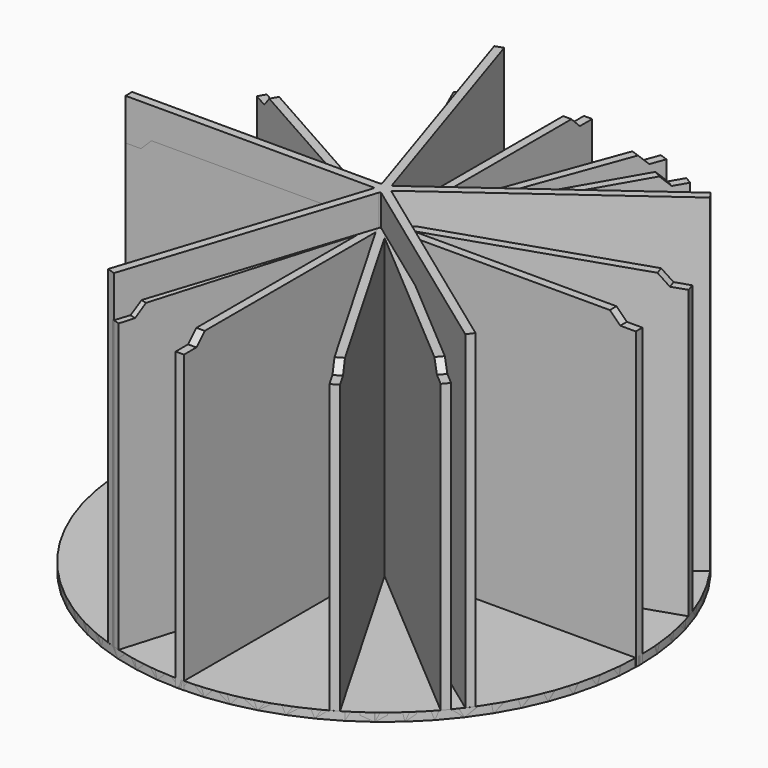
from build123d import *

# Parameters (mm, degrees)
PAD_DEPTH    = 32.5
FILLET_R     = 0.1
SKETCH006_R  = 24.6
PAD002_DEPTH = 0.8
PAD001_DEPTH = 29.5
FILLET001_R  = 0.15
PAD004_DEPTH = 29.5
SKETCH011_R  = 24.6
PAD005_DEPTH = 0.8
PAD006_DEPTH = 29.5
FILLET002_R  = 0.15
SKETCH014_R  = 24.6
PAD007_DEPTH = 0.8


with BuildPart() as body:
    # Sketch004 → Pad (new body)
    with BuildSketch(Plane.XY):
        Polygon((-7.9812356684, 23.2692904319), (-0.5505527682, 0.4), (-24.5967477525, 0.4), (-24.5967477525, -0.4), (-0.5505527682, -0.4), (-7.9812356684, -23.2692904319), (-7.2203904554, -23.5165040274), (0.2102924448, -0.6472135955), (19.6640728372, -14.781212381), (20.134301039, -14.1339987855), (0.6805206467, 0), (20.134301039, 14.1339987855), (19.6640728372, 14.781212381), (0.2102924448, 0.6472135955), (-7.2203904554, 23.5165040274), align=None)
    extrude(amount=PAD_DEPTH)

    # Fillet
    fillet_edges = [body.edges().sort_by_distance(p)[0] for p in [
        (0.210292, 0.647214, 16.25),
        (-0.550553, 0.4, 16.25),
        (-0.550553, -0.4, 16.25),
        (0.210292, -0.647214, 16.25),
        (0.680521, 0, 16.25),
    ]]
    fillet(fillet_edges, radius=FILLET_R)

    # Sketch006 → Pad002 (join)
    with BuildSketch(Plane.XY):
        Circle(SKETCH006_R)
    extrude(amount=PAD002_DEPTH)


with BuildPart() as body001:
    # Sketch001 → Pad001 (new body)
    with BuildSketch(Plane.XY):
        Polygon((-0.4, 24.5967477525), (-0.4, 0.4), (-24.5967477525, 0.4), (-24.5967477525, -0.4), (-0.4, -0.4), (-0.4, -24.5967477525), (0.4, -24.5967477525), (0.4, -0.4), (24.5967477525, -0.4), (24.5967477525, 0.4), (0.4, 0.4), (0.4, 24.5967477525), align=None)
    extrude(amount=PAD001_DEPTH)

    # Fillet001
    fillet001_edges = [body001.edges().sort_by_distance(p)[0] for p in [
        (0.4, 0.4, 14.75),
        (-0.4, 0.4, 14.75),
        (-0.4, -0.4, 14.75),
        (0.4, -0.4, 14.75),
    ]]
    fillet(fillet001_edges, radius=FILLET001_R)

    # Sketch007 → Groove001 (revolve, cut)
    with BuildSketch(Plane.XZ):
        Polygon((-24.6, 28.5), (-23.1, 28.5), (-22.1, 29.5), (-24.6, 29.5), align=None)
    revolve(axis=Axis((0, 0, 0), (0, 0, 1)), mode=Mode.SUBTRACT)


with BuildPart() as growing:
    # Sketch009 → Pad004 (new body)
    with BuildSketch(Plane.XY):
        Polygon((-24.5967477525, -0.4), (-24.5967477525, 0.4), (-1.5253733611, 0.4), (-21.6278933982, 11.7215283627), (-21.2353193566, 12.418583326), (-0.8534222236, 0.9397127142), (-10.3221188344, 22.3296632928), (-9.590588736, 22.6534899673), (-0.0341640242, 1.0653600804), (8.1194697573, 23.2214170726), (8.8702444949, 22.9451250291), (0.6622505389, 0.6413538816), (23.2176415251, 8.1302596523), (23.4697280995, 7.3710150547), (0.8001011197, -0.1558196791), (18.9883855233, -15.639731942), (18.469802807, -16.2488887087), (0.2086228294, -0.7029195389), (-6.6149861358, -23.6939223942), (-7.3819204182, -23.4663003249), (-0.5359635593, -0.4), align=None)
    extrude(amount=PAD004_DEPTH)

    # Sketch010 → Groove002 (revolve, cut)
    with BuildSketch(Plane.XZ):
        Polygon((-24.6, 28.5), (-23.1, 28.5), (-22.1, 29.5), (-24.6, 29.5), align=None)
    revolve(axis=Axis((0, 0, 0), (0, 0, 1)), mode=Mode.SUBTRACT)

    # Sketch011 → Pad005 (join)
    with BuildSketch(Plane.XY):
        Circle(SKETCH011_R)
    extrude(amount=PAD005_DEPTH)


with BuildPart() as body004:
    # Sketch012 → Pad006 (new body)
    with BuildSketch(Plane.XY):
        Polygon((11.9519637147, 21.5014084041), (-0.2309401077, 0.4), (-24.5967477525, 0.4), (-24.5967477525, -0.4), (-0.2309401077, -0.4), (11.9519637147, -21.5014084041), (12.6447840378, -21.1014084041), (0.4618802154, 0), (12.6447840378, 21.1014084041), align=None)
    extrude(amount=PAD006_DEPTH)

    # Fillet002
    fillet002_edges = [body004.edges().sort_by_distance(p)[0] for p in [
        (-0.23094, 0.4, 14.75),
        (-0.23094, -0.4, 14.75),
        (0.46188, 0, 14.75),
    ]]
    fillet(fillet002_edges, radius=FILLET002_R)

    # Sketch013 → Groove003 (revolve, cut)
    with BuildSketch(Plane.XZ):
        Polygon((-24.6, 28.5), (-23.1, 28.5), (-22.1, 29.5), (-24.6, 29.5), align=None)
    revolve(axis=Axis((0, 0, 0), (0, 0, 1)), mode=Mode.SUBTRACT)

    # Sketch014 → Pad007 (join)
    with BuildSketch(Plane.XY):
        Circle(SKETCH014_R)
    extrude(amount=PAD007_DEPTH)


solid = Compound([body.part, body001.part, growing.part, body004.part])
